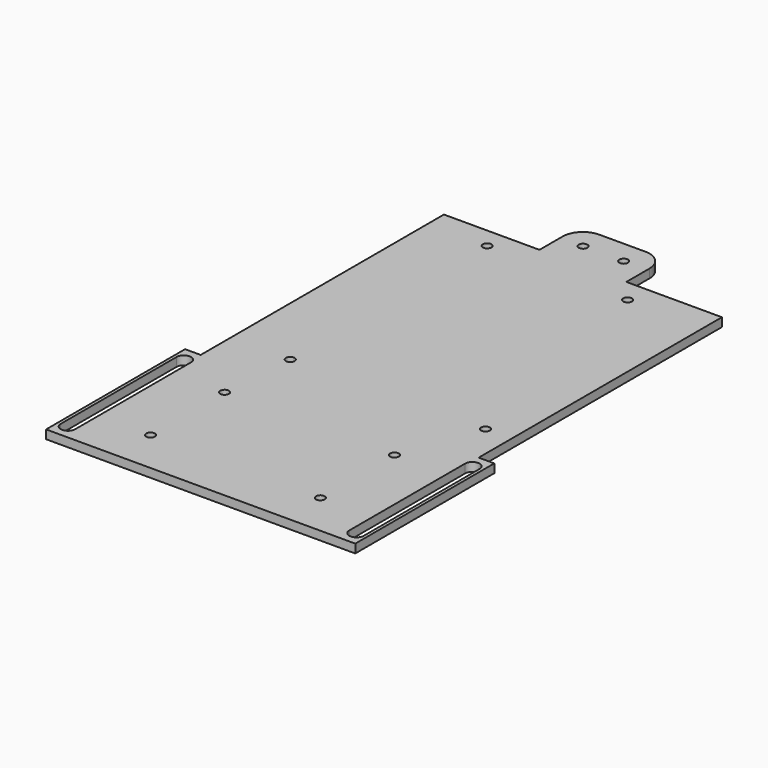
from build123d import *

# Parameters (mm, degrees)
F0_W      = 48
F0_H      = 165
F1_DEPTH  = 3
F2_W      = 5.386259
F2_H      = 60
F1_FACE_W = 48
F1_FACE_H = 165
F3_DEPTH  = 3
F4_W      = 15
F4_H      = 17
F5_DEPTH  = 3
F6_R      = 7
F8_DEPTH  = 61.790481
F10_D     = 3
F15_D     = 3
F17_D     = 3
F19_D     = 3
F21_D     = 3


with BuildPart() as f1:
    # F0 (on Top) → F1 (new body)
    with BuildSketch(Plane.XY):
        with Locations((24, 82.5)):
            Rectangle(F0_W, F0_H)
    extrude(amount=F1_DEPTH)

    # F2 (on face) + F1_face (on face) → F3 (join)
    with BuildSketch(Plane.XY.offset(3)):
        with Locations((50.693129, 30)):
            Rectangle(F2_W, F2_H)
    with BuildSketch(Plane(origin=(24, 82.5, 3), x_dir=(1, 0, 0), z_dir=(0, 0, 1))):
        Rectangle(F1_FACE_W, F1_FACE_H)
    extrude(amount=-F3_DEPTH)

    # F4 (on face) → F5 (join)
    with BuildSketch(Plane.XY.offset(3)):
        with Locations((7.5, 173.5)):
            Rectangle(F4_W, F4_H)
    extrude(amount=-F5_DEPTH)

    # F6
    f6_edges = [f1.edges().sort_by_distance(p)[0] for p in [
        (15, 182, 1.5),
    ]]
    fillet(f6_edges, radius=F6_R)

    # F7 (on face) → F8 (cut)
    with BuildSketch(Plane.XY.offset(3)):
        with BuildLine():
            ThreePointArc((52.321299, 55), (49.821299, 57.5), (47.321299, 55))
            Line((47.321299, 55), (47.321299, 5))
            ThreePointArc((47.321299, 5), (49.821299, 2.5), (52.321299, 5))
            Line((52.321299, 5), (52.321299, 55))
        make_face()
    extrude(amount=-F8_DEPTH, mode=Mode.SUBTRACT)

    # F10 (through all)
    with Locations(Plane.XY.offset(3)):
        with Locations((29.321299, 15), (29.321299, 47)):
            Hole(F10_D / 2)

    # F13: F1 across plane


with BuildPart() as f1_1:
    add(f1.part)
    add(f1.part.mirror(Plane.YZ))

    # F15 (through all)
    with Locations(Plane.XY.offset(3)):
        with Locations((6.873526, 174), (-7.126474, 174)):
            Hole(F15_D / 2)

    # F17 (through all)
    with Locations(Plane.XY.offset(3)):
        with Locations((21.825111, 157)):
            Hole(F17_D / 2)

    # F19 (through all)
    with Locations(Plane.XY.offset(3)):
        with Locations((-27.468093, 73), (-27.468093, 158)):
            Hole(F19_D / 2)

    # F21 (through all)
    with Locations(Plane.XY.offset(3)):
        with Locations((39, 74.208118)):
            Hole(F21_D / 2)


solid = f1_1.part
